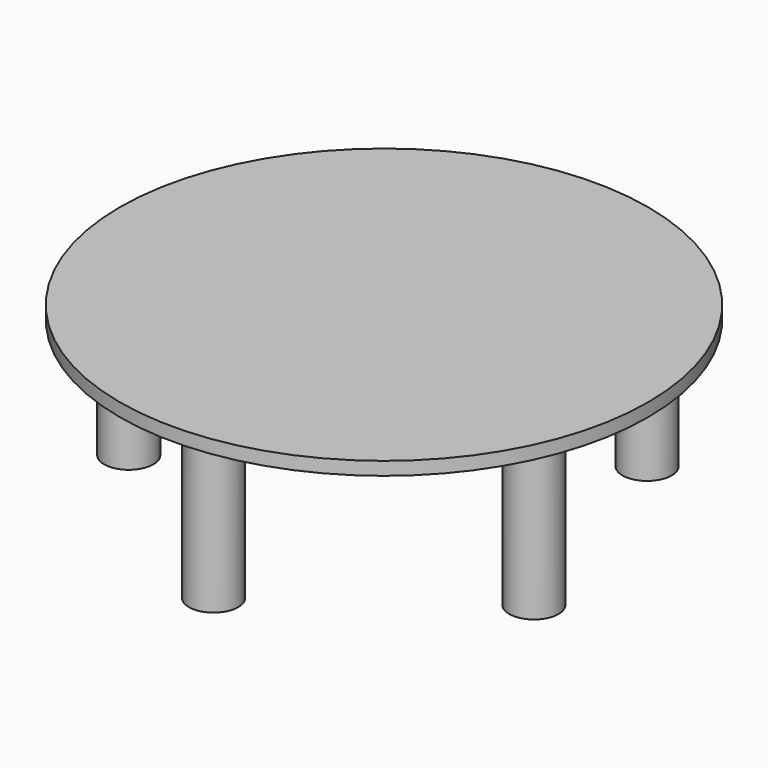
from build123d import *

# Parameters (mm, degrees)
F0_R     = 500
F2_DEPTH = 25
F1_R     = 46.69
F3_DEPTH = 300
F4_COUNT = 5


with BuildPart() as f2:
    # F0 (on Top) → F2 (new body)
    with BuildSketch(Plane.XY):
        Circle(F0_R)
    extrude(amount=F2_DEPTH)

    # F1 (on face) → F3 (join)
    with BuildSketch(Plane.XY):
        with Locations((0, -403.2496213913)):
            Circle(F1_R)
    extrude(amount=-F3_DEPTH)

    # F4: F2 ×5 about axis
    f4_axis = Axis((0, 0, 0), (0, 0, 1))


with BuildPart() as f2_1:
    add(f2.part)
    for i in range(1, F4_COUNT):
        add(f2.part.rotate(f4_axis, i * 360 / F4_COUNT))


solid = f2_1.part
